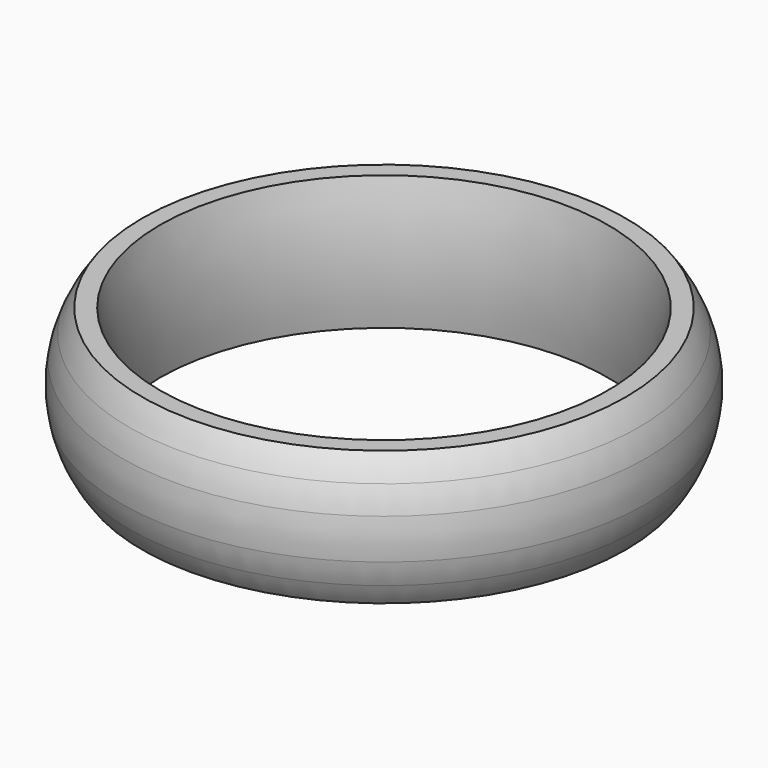
from build123d import *


with BuildPart() as f1:
    # F0 (on Front) → F1 (revolve)
    with BuildSketch(Plane.XZ):
        with BuildLine():
            Line((-10, 6), (-10.8, 6))
            ThreePointArc((-10.8, 6), (-11.1203184362, 5.5169125154), (-11.382575695, 5))
            ThreePointArc((-11.382575695, 5), (-11.376495427, 4.396901822), (-11.7183330509, 3.9))
            ThreePointArc((-11.7183330509, 3.9), (-11.8, 3), (-11.7183330509, 2.1))
            ThreePointArc((-11.7183330509, 2.1), (-11.376495427, 1.603098178), (-11.382575695, 1))
            ThreePointArc((-11.382575695, 1), (-11.1203184362, 0.4830874846), (-10.8, 0))
            Line((-10.8, 0), (-10, 0))
            ThreePointArc((-10, 0), (-9.65, 3), (-10, 6))
        make_face()
        with BuildLine():
            ThreePointArc((-11.7183330509, 3.9), (-11.376495427, 4.396901822), (-11.382575695, 5))
            ThreePointArc((-11.382575695, 5), (-11.582187444, 4.4596860109), (-11.7183330509, 3.9))
        make_face()
        with BuildLine():
            ThreePointArc((-11.382575695, 1), (-11.376495427, 1.603098178), (-11.7183330509, 2.1))
            ThreePointArc((-11.7183330509, 2.1), (-11.582187444, 1.5403139891), (-11.382575695, 1))
        make_face()
    revolve(axis=Axis((0, 0, 3), (0, 0, 1)))


solid = f1.part
